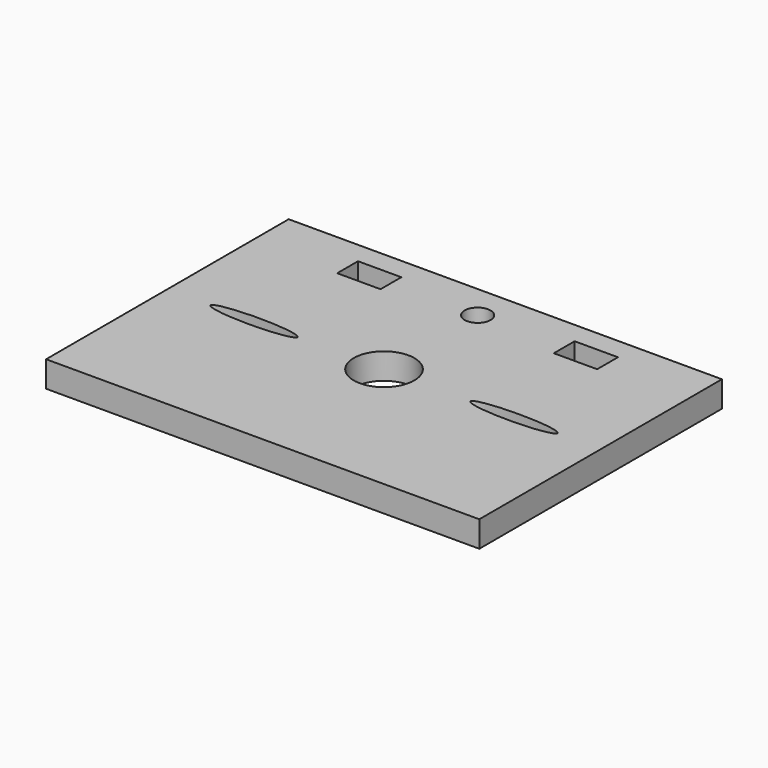
from build123d import *

# Parameters (mm, degrees)
F0_W     = 50
F0_H     = 35
F1_DEPTH = 3
F2_W     = 5
F2_H     = 3
F2_R     = 3.5
F2_R_2   = 1.5
F3_DEPTH = 25


with BuildPart() as f1:
    # F0 (on Top) → F1 (new body)
    with BuildSketch(Plane.XY):
        Rectangle(F0_W, F0_H)
    extrude(amount=F1_DEPTH)

    # F2 (on face) → F3 (cut)
    with BuildSketch(Plane.XY.offset(3)):
        with Locations((-12.5, 13.5)):
            Rectangle(F2_W, F2_H)
        with Locations((12.5, 13.5)):
            Rectangle(F2_W, F2_H)
        Circle(F2_R)
        with Locations((0, 13.5)):
            Circle(F2_R_2)
        with BuildLine():
            add(Edge.make_bspline(
                [(-10, 0), (-10, 1.299038), (-17.5, 0.649519), (-25, 0), (-17.5, -0.649519), (-10, -1.299038), (-10, 0)],
                knots=[0, 0, 0, 2.094395, 2.094395, 4.18879, 4.18879, 6.283185, 6.283185, 6.283185], degree=2, weights=[1, 0.5, 1, 0.5, 1, 0.5, 1]))
        make_face()
        with BuildLine():
            add(Edge.make_bspline(
                [(10, 0), (10, -1.299038), (17.5, -0.649519), (25, 0), (17.5, 0.649519), (10, 1.299038), (10, 0)],
                knots=[0, 0, 0, 2.094395, 2.094395, 4.18879, 4.18879, 6.283185, 6.283185, 6.283185], degree=2, weights=[1, 0.5, 1, 0.5, 1, 0.5, 1]))
        make_face()
    extrude(amount=-F3_DEPTH, mode=Mode.SUBTRACT)


solid = f1.part
